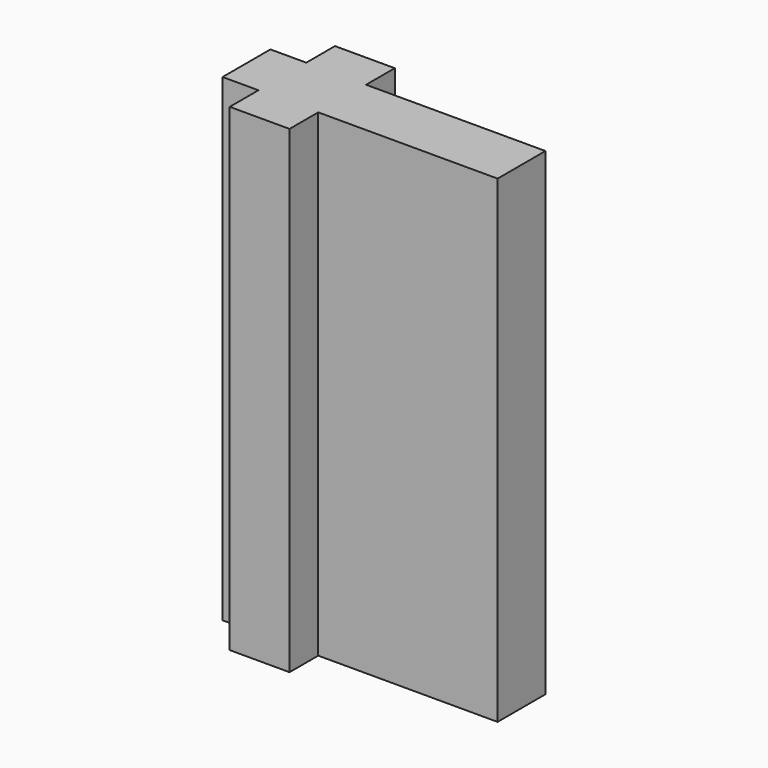
from build123d import *

# Parameters (mm, degrees)
F0_W     = 5
F0_H     = 3
F0_H_2   = 5
F0_W_2   = 3
F0_W_3   = 12
F1_DEPTH = 40


with BuildPart() as f1:
    # F0 (on Top) → F1 (new body)
    with BuildSketch(Plane.XY):
        with Locations((0, 4)):
            Rectangle(F0_W, F0_H)
        Rectangle(F0_W, F0_H_2)
        with Locations((-4, 0)):
            Rectangle(F0_W_2, F0_H_2)
        with Locations((0, -4)):
            Rectangle(F0_W, F0_H)
        with Locations((4, 0)):
            Rectangle(F0_W_2, F0_H_2)
        with Locations((11.5, 0)):
            Rectangle(F0_W_3, F0_H_2)
    extrude(amount=F1_DEPTH)


solid = f1.part
